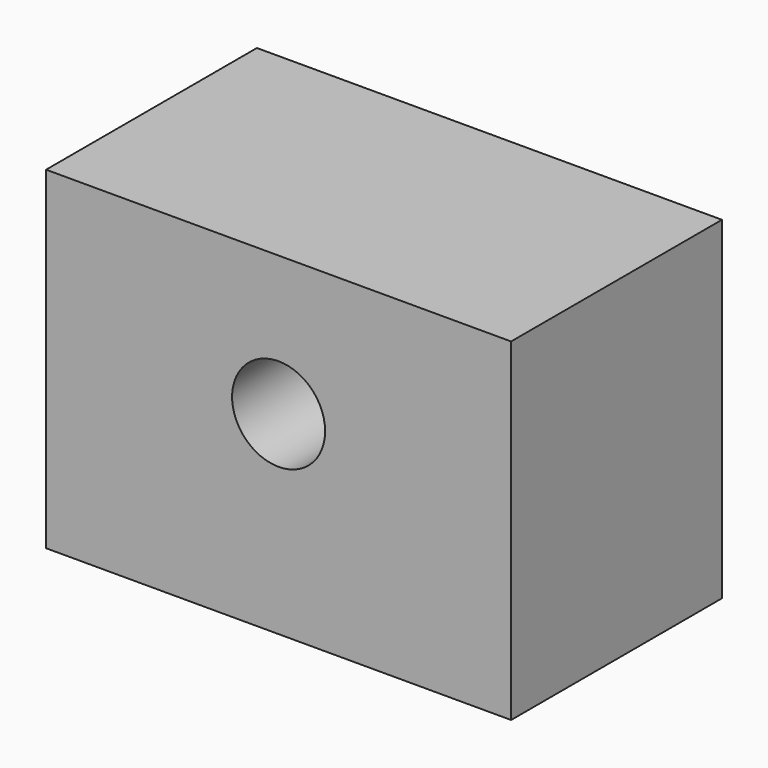
from build123d import *

# Parameters (mm, degrees)
F0_W     = 60
F0_H     = 43
F0_R     = 6
F1_DEPTH = 34


with BuildPart() as f1:
    # F0 (on Front) → F1 (new body)
    with BuildSketch(Plane.XZ):
        Rectangle(F0_W, F0_H)
        with Locations((0, 3.5)):
            Circle(F0_R, mode=Mode.SUBTRACT)
    extrude(amount=-F1_DEPTH)


solid = f1.part
